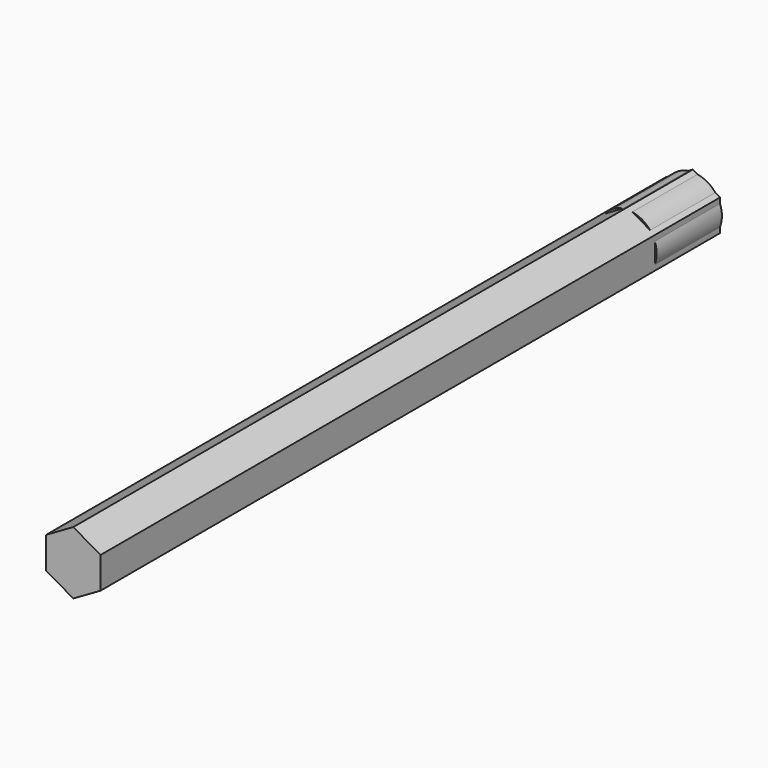
from build123d import *

# Parameters (mm, degrees)
F0_R     = 6.35
F1_DEPTH = 17.78
F3_DEPTH = 168.91


with BuildPart() as f1:
    # F0 (on Front) → F1 (new body)
    with BuildSketch(Plane.XZ):
        Circle(F0_R)
    extrude(amount=F1_DEPTH)

    # F2 (on Front) → F3 (join)
    with BuildSketch(Plane.XZ):
        Polygon((-5.939202, -3.429), (0, -6.858), (5.939202, -3.429), (5.939202, 3.429), (0, 6.858), (-5.939202, 3.429), align=None)
    extrude(amount=F3_DEPTH)


solid = f1.part
